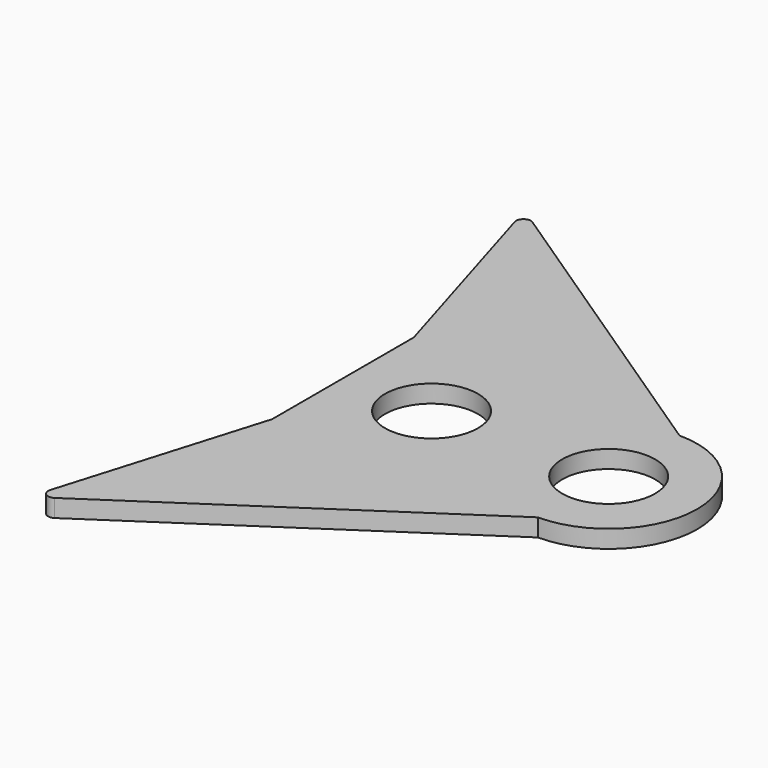
from build123d import *

# Parameters (mm, degrees)
F0_R     = 3.15
F1_DEPTH = 1.2
F2_R     = 0.5


with BuildPart() as f1:
    # F0 (on Top) → F1 (new body)
    with BuildSketch(Plane.XY):
        Polygon((-4.5, 15), (0, 0), (18, 0), align=None)
        with BuildLine():
            Line((18, 0), (0, 0))
            Line((0, 0), (0, -12))
            Line((0, -12), (18, -12))
            ThreePointArc((18, -12), (24, -6), (18, 0))
        make_face()
        with Locations((6, -6)):
            Circle(F0_R, mode=Mode.SUBTRACT)
        with Locations((18, -6)):
            Circle(F0_R, mode=Mode.SUBTRACT)
        Polygon((18, -12), (0, -12), (-4.5, -27), align=None)
    extrude(amount=F1_DEPTH)

    # F2
    f2_edges = [f1.edges().sort_by_distance(p)[0] for p in [
        (-4.5, -27, 0.6),
        (-4.5, 15, 0.6),
    ]]
    fillet(f2_edges, radius=F2_R)


solid = f1.part
